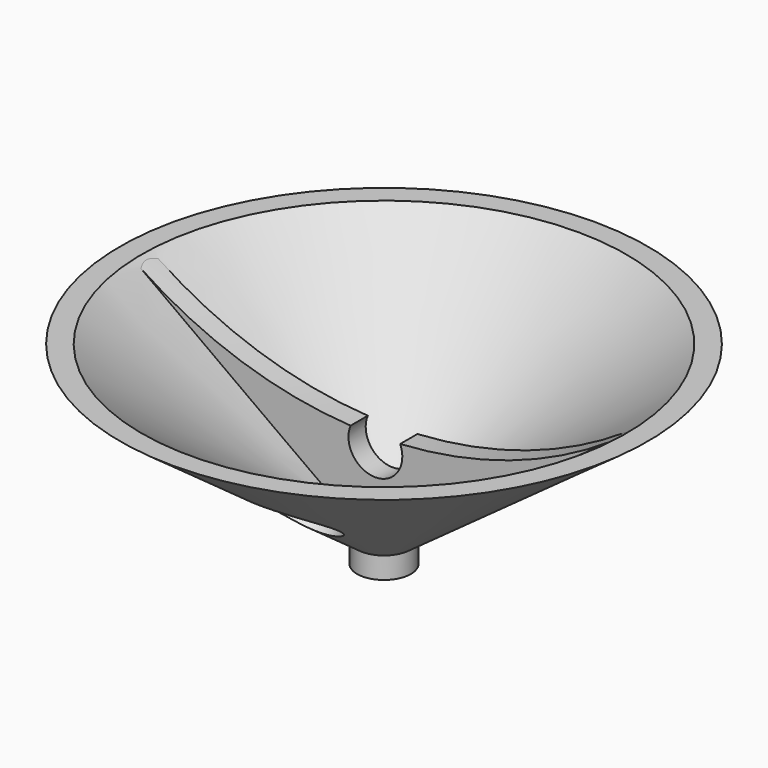
from build123d import *

# Parameters (mm, degrees)
CYLINDER001_R               = 4
CYLINDER001_DEPTH           = 10
CYLINDER001_PLACEMENT_ANGLE = 45
CYLINDER_R                  = 2.5
CYLINDER_DEPTH              = 10
PAD006_DEPTH                = 1


with BuildPart() as cylinder001:
    # Cylinder001 → Cylinder001 (new body)
    with BuildSketch(Plane.XY):
        Circle(CYLINDER001_R)
    extrude(amount=CYLINDER001_DEPTH)


with BuildPart() as cylinder001_1:
    # Cylinder001 placement: moved
    add(cylinder001.part.moved(Location((0, -13.435029, 5.535534))).rotate(Axis((0, -13.435029, 5.535534), (-1, 0, 0)), CYLINDER001_PLACEMENT_ANGLE))


with BuildPart() as cylinder:
    # Cylinder → Cylinder (new body)
    with BuildSketch(Plane(origin=(0, -6, 10), x_dir=(0, 0, 1), z_dir=(0, 1, 0))):
        Circle(CYLINDER_R)
    extrude(amount=CYLINDER_DEPTH)


with BuildPart() as obj1:
    # Sketch009 → Pad006 (new body, symmetric)
    with BuildSketch(Plane.XZ):
        with BuildLine():
            Line((22.524081, 18), (0.5, 2))
            Line((0.5, 2), (0, 2))
            Line((-0.5, 2), (0, 2))
            Line((-22.524081, 18), (-0.5, 2))
            ThreePointArc((-22.524081, 18), (0, 10.908086), (22.524081, 18))
        make_face()
    extrude(amount=PAD006_DEPTH, both=True)

    # Cut002: cut Cylinder
    add(cylinder.part, mode=Mode.SUBTRACT)


with BuildPart() as obj2:
    # Sketch008 → Revolution001 (revolve)
    with BuildSketch(Plane.YZ):
        Polygon((0, 2), (0, 0), (2.5, 0), (2.5, 2), (24.5, 18), (22.5, 18), (0.5, 2), align=None)
    revolve(axis=Axis((0, 0, 0), (0, 0, 1)))

    # Fusion002: union obj1
    add(obj1.part)

    # Cut003: cut Cylinder001
    add(cylinder001_1.part, mode=Mode.SUBTRACT)


with BuildPart() as obj2_1:
    # Cut003 placement: moved
    add(obj2.part.moved(Location((0, -27, -18))))


with BuildPart() as obj2_2:
    # Body009 placement: moved
    add(obj2_1.part.moved(Location((0, 50, 0))))


solid = obj2_2.part
